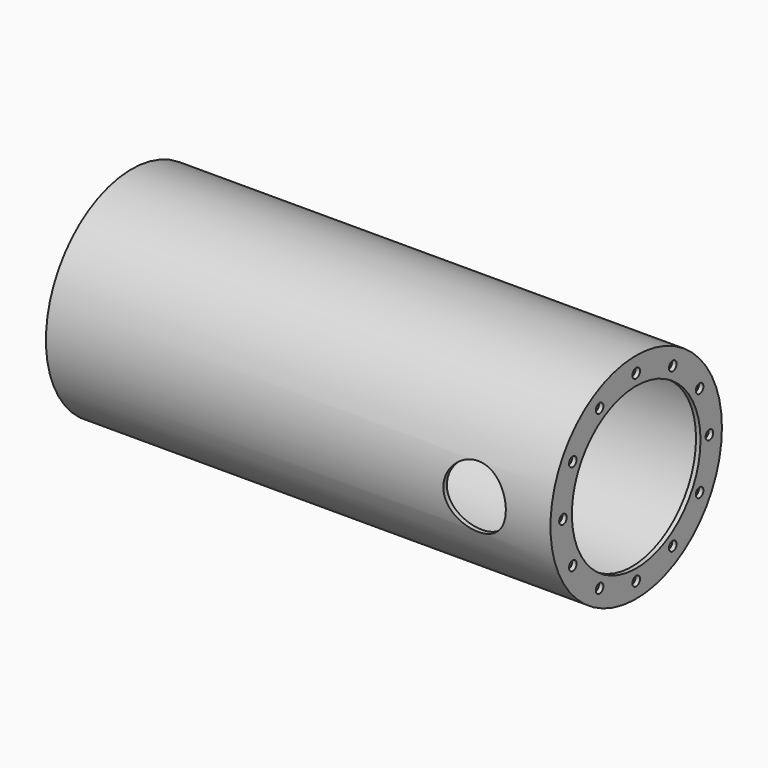
from build123d import *

# Parameters (mm, degrees)
F0_R     = 76.2
F0_R_2   = 73.025
F1_DEPTH = 355.6
F2_R     = 76.2
F2_R_2   = 57.15
F3_DEPTH = 3.175
F4_R     = 3.3782
F5_DEPTH = 358.776
F7_R     = 22.225
F8_DEPTH = 7.6392352968


with BuildPart() as f1:
    # F0 (on Right) → F1 (new body)
    with BuildSketch(Plane.YZ):
        Circle(F0_R)
        Circle(F0_R_2, mode=Mode.SUBTRACT)
    extrude(amount=-F1_DEPTH)

    # F2 (on Right) → F3 (join)
    with BuildSketch(Plane.YZ):
        Circle(F2_R)
        Circle(F2_R_2, mode=Mode.SUBTRACT)
    extrude(amount=F3_DEPTH)

    # F4 (on face) → F5 (cut, through all)
    with BuildSketch(Plane.YZ.offset(3.175)):
        with Locations((0, 65.0875)):
            Circle(F4_R)
        with Locations((32.54375, 56.3674284688)):
            Circle(F4_R)
        with Locations((56.3674284688, 32.54375)):
            Circle(F4_R)
        with Locations((65.0875, 0)):
            Circle(F4_R)
        with Locations((56.3674284688, -32.54375)):
            Circle(F4_R)
        with Locations((32.54375, -56.3674284688)):
            Circle(F4_R)
        with Locations((0, -65.0875)):
            Circle(F4_R)
        with Locations((-32.54375, -56.3674284688)):
            Circle(F4_R)
        with Locations((-56.3674284688, -32.54375)):
            Circle(F4_R)
        with Locations((-65.0875, 0)):
            Circle(F4_R)
        with Locations((-56.3674284688, 32.54375)):
            Circle(F4_R)
        with Locations((-32.54375, 56.3674284688)):
            Circle(F4_R)
    extrude(amount=-F5_DEPTH, mode=Mode.SUBTRACT)

    # F7 (on offset) → F8 (cut, up to face)
    with BuildSketch(Plane.XZ.offset(76.2)):
        with Locations((-50.8, 0)):
            Circle(F7_R)
    extrude(amount=-F8_DEPTH, mode=Mode.SUBTRACT)


solid = f1.part
